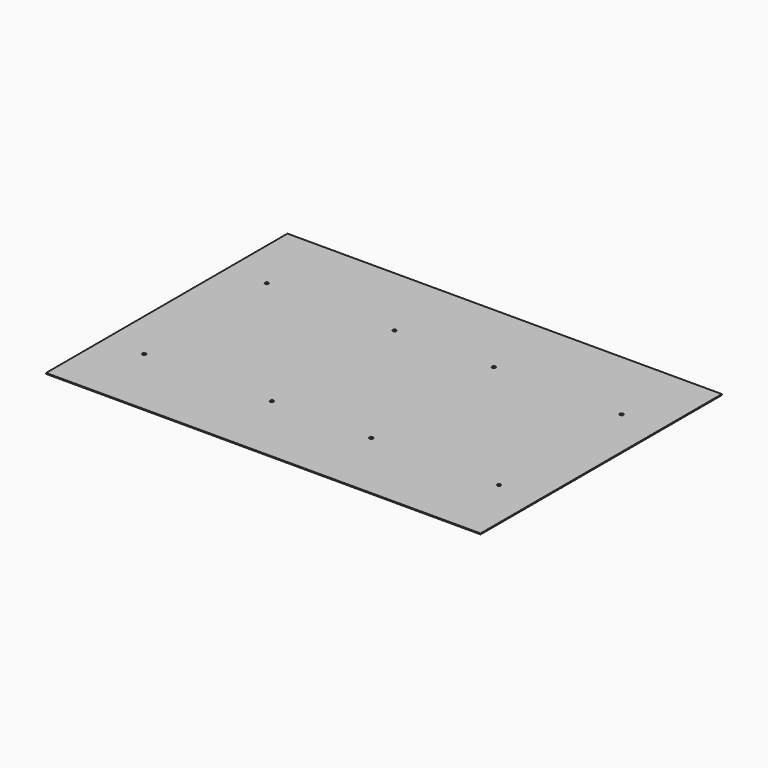
from build123d import *

# Parameters (mm, degrees)
F0_W     = 432
F0_H     = 300
F0_R     = 1.7145
F1_DEPTH = 0.889


with BuildPart() as f1:
    # F0 (on Top) → F1 (new body)
    with BuildSketch(Plane.XY):
        with Locations((216, 150)):
            Rectangle(F0_W, F0_H)
        with Locations((39.624, 72.39)):
            Circle(F0_R, mode=Mode.SUBTRACT)
        with Locations((166.624, 72.39)):
            Circle(F0_R, mode=Mode.SUBTRACT)
        with Locations((265.376, 72.39)):
            Circle(F0_R, mode=Mode.SUBTRACT)
        with Locations((392.376, 72.39)):
            Circle(F0_R, mode=Mode.SUBTRACT)
        with Locations((39.624, 224.79)):
            Circle(F0_R, mode=Mode.SUBTRACT)
        with Locations((166.624, 224.79)):
            Circle(F0_R, mode=Mode.SUBTRACT)
        with Locations((265.376, 224.79)):
            Circle(F0_R, mode=Mode.SUBTRACT)
        with Locations((392.376, 224.79)):
            Circle(F0_R, mode=Mode.SUBTRACT)
    extrude(amount=-F1_DEPTH)


solid = f1.part
